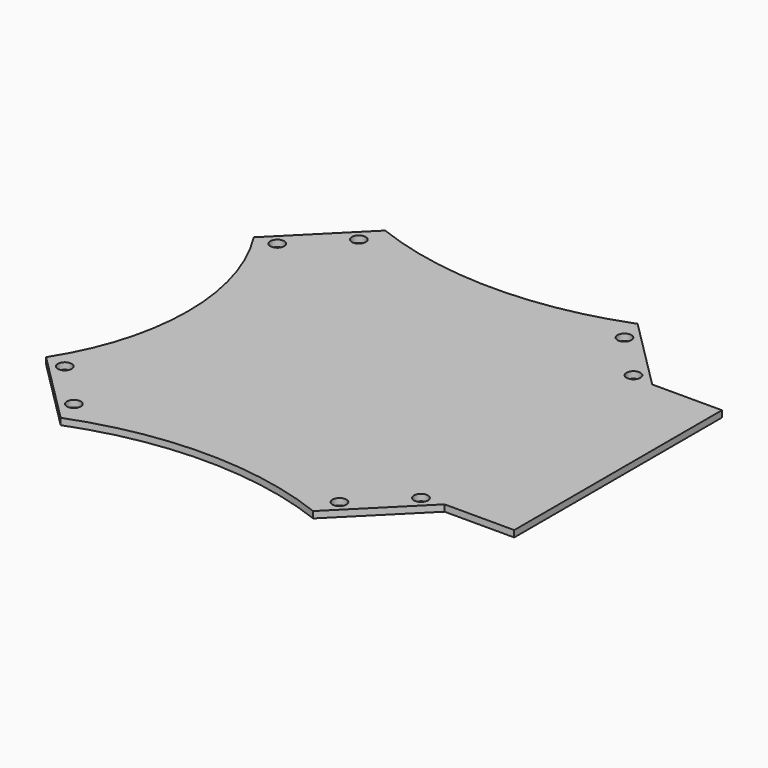
from build123d import *

# Parameters (mm, degrees)
F0_R     = 1.625
F1_DEPTH = 1.524


with BuildPart() as f1:
    # F0 (on Top) → F1 (new body)
    with BuildSketch(Plane.XY):
        with BuildLine():
            Line((1.538059, 5.7807), (-15.556349, -11.313708))
            ThreePointArc((-15.556349, -11.313708), (-6.637302, -41.7193), (-15.556349, -72.124892))
            Line((-15.556349, -72.124892), (1.538059, -89.2193))
            ThreePointArc((1.538059, -89.2193), (31.112698, -83.7193), (60.687338, -89.2193))
            Line((60.687338, -89.2193), (77.781746, -72.124892))
            Line((77.781746, -72.124892), (94.112698, -72.124892))
            Line((94.112698, -72.124892), (94.112698, -11.313708))
            Line((94.112698, -11.313708), (77.781746, -11.313708))
            Line((77.781746, -11.313708), (60.687338, 5.7807))
            ThreePointArc((60.687338, 5.7807), (31.112698, 0.2807), (1.538059, 5.7807))
        make_face()
        with Locations((0, -83.4386)):
            Circle(F0_R, mode=Mode.SUBTRACT)
        with Locations((-10.606602, -72.831998)):
            Circle(F0_R, mode=Mode.SUBTRACT)
        with Locations((62.225397, -83.4386)):
            Circle(F0_R, mode=Mode.SUBTRACT)
        with Locations((72.831998, -72.831998)):
            Circle(F0_R, mode=Mode.SUBTRACT)
        with Locations((-10.606602, -10.606602)):
            Circle(F0_R, mode=Mode.SUBTRACT)
        Circle(F0_R, mode=Mode.SUBTRACT)
        with Locations((62.225397, 0)):
            Circle(F0_R, mode=Mode.SUBTRACT)
        with Locations((72.831998, -10.606602)):
            Circle(F0_R, mode=Mode.SUBTRACT)
    extrude(amount=F1_DEPTH)


solid = f1.part
